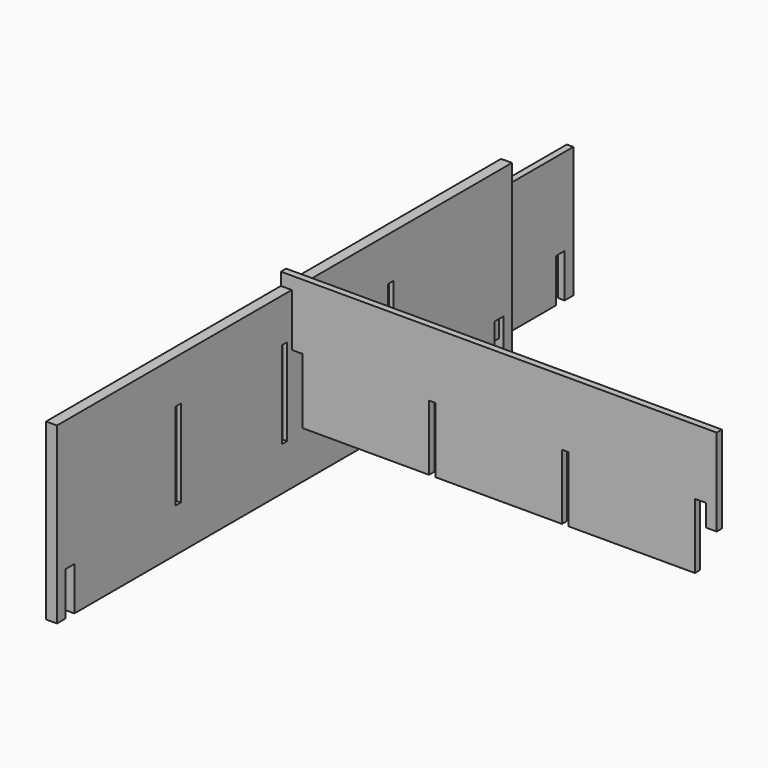
from build123d import *

# Parameters (mm, degrees)
F1_DEPTH = 3
F3_DEPTH = 3
F4_W     = 3
F4_H     = 40
F5_DEPTH = 5


with BuildPart() as f1:
    # F0 (on Front) → F1 (new body)
    with BuildSketch(Plane.XZ):
        Polygon((0, 60), (0, 20), (5, 20), (5, 30), (10, 30), (10, 0), (68, 0), (68, 30), (71, 30), (71, 0), (129, 0), (129, 30), (132, 30), (132, 0), (190, 0), (190, 30), (195, 30), (195, 20), (200, 20), (200, 60), align=None)
    extrude(amount=F1_DEPTH)


with BuildPart() as f3:
    # F2 (on Right) → F3 (new body)
    with BuildSketch(Plane.YZ):
        Polygon((-100, 44.673787), (-100, -15.326213), (-95, -15.326213), (-95, 4.673787), (-90, 4.673787), (-90, -15.326213), (151, -15.326213), (151, 4.673787), (156, 4.673787), (156, -15.326213), (161, -15.326213), (161, 44.673787), (93, 44.673787), (93, 14.673787), (90, 14.673787), (90, 44.673787), (32, 44.673787), (32, 14.673787), (29, 14.673787), (29, 44.673787), (-29, 44.673787), (-29, 14.673787), (-32, 14.673787), (-32, 44.673787), align=None)
    extrude(amount=F3_DEPTH)


with BuildPart() as f5:
    # F4 (on Right) → F5 (new body)
    with BuildSketch(Plane.YZ):
        Polygon((118.323529, -25.799315), (123.323529, -25.799315), (123.323529, 54.200685), (-137.676471, 54.200685), (-137.676471, -25.799315), (-132.676471, -25.799315), (-132.676471, -5.799315), (-127.676471, -5.799315), (-127.676471, -25.799315), (113.323529, -25.799315), (113.323529, -5.799315), (118.323529, -5.799315), align=None)
        with Locations((-68.176471, 14.200685)):
            Rectangle(F4_W, F4_H, mode=Mode.SUBTRACT)
        with Locations((-7.176471, 14.200685)):
            Rectangle(F4_W, F4_H, mode=Mode.SUBTRACT)
        with Locations((53.823529, 14.200685)):
            Rectangle(F4_W, F4_H, mode=Mode.SUBTRACT)
    extrude(amount=F5_DEPTH)


solid = Compound([f1.part, f3.part, f5.part])
